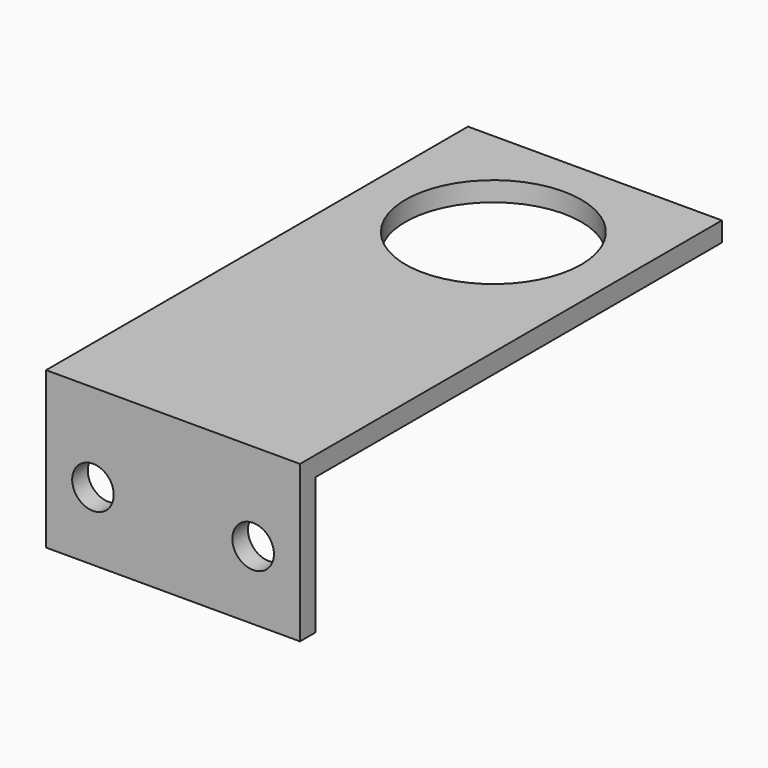
from build123d import *

# Parameters (mm, degrees)
F0_W     = 41.275
F0_H     = 82.55
F0_R     = 14.2875
F0_H_2   = 3.175
F1_DEPTH = 3.175
F2_DEPTH = 22.225
F4_D     = 6.7564
F4_DEPTH = 76.2
F4_TIP   = 2.0298273432


with BuildPart() as f1:
    # F0 (on Top) → F1 (new body)
    with BuildSketch(Plane.XY):
        with Locations((-21.8522840129, -10.9388585212)):
            Rectangle(F0_W, F0_H)
        with Locations((-21.8522840129, 9.6986414788)):
            Circle(F0_R, mode=Mode.SUBTRACT)
        with Locations((-21.8522840129, -53.8013585212)):
            Rectangle(F0_W, F0_H_2)
    extrude(amount=F1_DEPTH)

    # F0 (on Top) → F2 (join)
    with BuildSketch(Plane.XY):
        with Locations((-21.8522840129, -53.8013585212)):
            Rectangle(F0_W, F0_H_2)
    extrude(amount=-F2_DEPTH)

    # F4
    with Locations(Plane(origin=(0, -52.2138585212, 0), x_dir=(-1, 0, 0), z_dir=(0, 1, 0))):
        with Locations((8.8347840129, -11.1125), (34.8697840129, -11.1125)):
            Hole(F4_D / 2, depth=F4_DEPTH)
            with Locations((0, 0, -(F4_DEPTH + F4_TIP / 2))):  # 118° drill point
                Cone(0, F4_D / 2, F4_TIP, mode=Mode.SUBTRACT)


solid = f1.part
